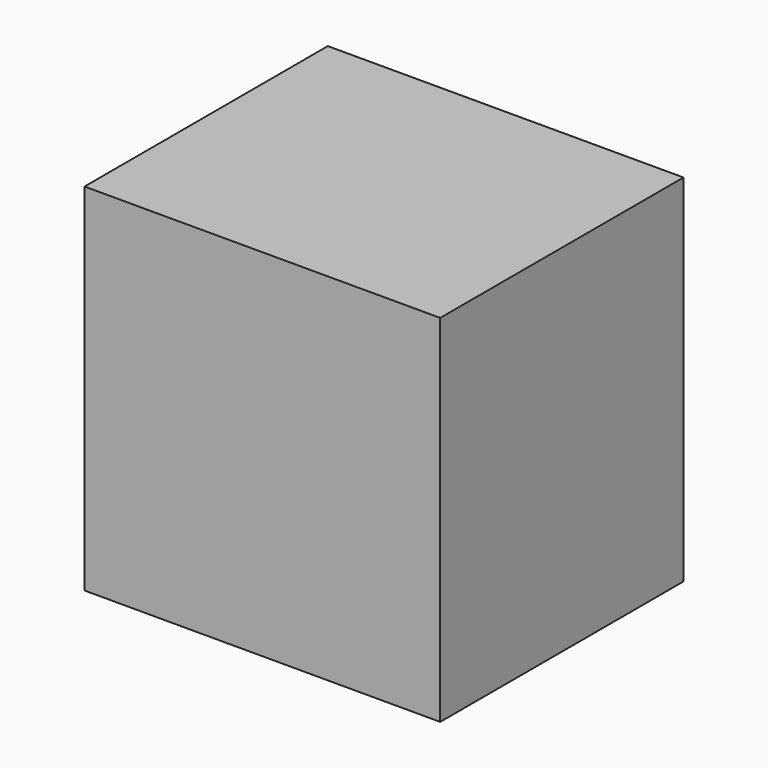
from build123d import *

# Parameters (mm, degrees)
F0_W     = 50.8
F0_H     = 50.8
F1_DEPTH = 43.434
F2_W     = 12.192
F2_H     = 12.192
F3_DEPTH = 17.78
F4_W     = 12.192
F4_H     = 12.192
F5_DEPTH = 17.78


with BuildPart() as f1:
    # F0 (on Front) → F1 (new body)
    with BuildSketch(Plane.XZ):
        with Locations((0.816428, 3.06024)):
            Rectangle(F0_W, F0_H)
    extrude(amount=F1_DEPTH)

    # F2 (on face) → F3 (cut)
    with BuildSketch(Plane(origin=(0, 0, 0), x_dir=(-1, 0, 0), z_dir=(0, 1, 0))):
        with Locations((-16.600084, 18.591136)):
            Rectangle(F2_W, F2_H)
    extrude(amount=-F3_DEPTH, mode=Mode.SUBTRACT)

    # F4 (on face) → F5 (cut)
    with BuildSketch(Plane(origin=(0, 0, 0), x_dir=(-1, 0, 0), z_dir=(0, 1, 0))):
        with Locations((0.544286, 18.74946)):
            Rectangle(F4_W, F4_H)
    extrude(amount=-F5_DEPTH, mode=Mode.SUBTRACT)


solid = f1.part
